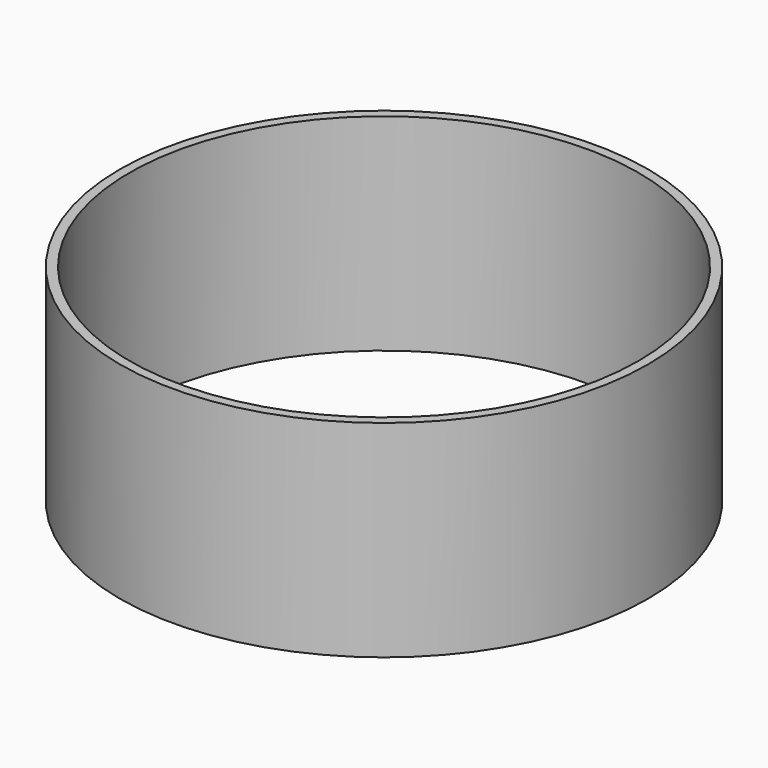
from build123d import *

# Parameters (mm, degrees)
F0_R     = 30.85
F0_R_2   = 32
F1_DEPTH = 25


with BuildPart() as f1:
    # F0 (on Top) → F1 (new body)
    with BuildSketch(Plane.XY):
        with Locations((-6.40405, -6.24025)):
            Circle(F0_R)
        Polygon((3.58375, -15.91565), (7.64255, -19.62725), (10.34195, -16.67535), (12.70345, -18.83485), (10.00405, -21.78665), (10.96345, -22.66395), (14.33765, -18.97415), (17.43705, -21.80845), (11.22865, -28.59775), (0.74945, -19.01515), align=None, mode=Mode.SUBTRACT)
        Polygon((21.10335, -12.34145), (19.89105, -16.36275), (6.29545, -12.26385), (7.50785, -8.24255), align=None, mode=Mode.SUBTRACT)
        Polygon((-9.52105, 11.52005), (-5.32785, 11.75935), (-5.09945, 7.75685), (-9.29265, 7.51755), align=None, mode=Mode.SUBTRACT)
        Polygon((-10.10165, 21.69445), (-5.90845, 21.93375), (-5.39515, 12.93935), (-9.58835, 12.70005), align=None, mode=Mode.SUBTRACT)
        Polygon((14.31355, -2.17865), (8.57655, -7.66495), (7.26115, -3.40365), (9.39465, -1.36345), (6.48235, -0.88075), (5.16695, 3.38045), (12.99815, 2.08255), (18.73525, 7.56875), (20.05065, 3.30755), (17.91715, 1.26735), (20.82945, 0.78465), (22.14475, -3.47665), align=None, mode=Mode.SUBTRACT)
        Polygon((-1.94305, 11.89445), (2.46845, 9.54095), (3.08035, 10.68795), (0.43345, 12.10005), (1.93975, 14.92345), (4.58665, 13.51135), (5.19855, 14.65835), (0.78705, 17.01175), (2.76395, 20.71745), (10.88105, 16.38705), (4.19715, 3.85845), (-3.91995, 8.18885), align=None, mode=Mode.SUBTRACT)
        with Locations((-6.40405, -6.24025)):
            Circle(F0_R_2)
        with Locations((-6.40405, -6.24025)):
            Circle(F0_R, mode=Mode.SUBTRACT)
    extrude(amount=F1_DEPTH)


solid = f1.part
